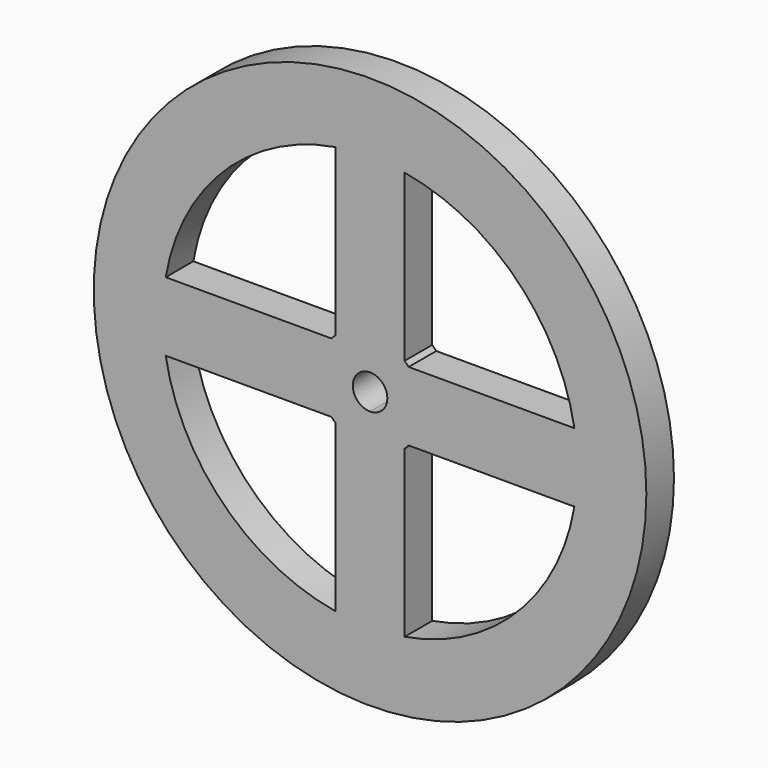
from build123d import *

# Parameters (mm, degrees)
F0_R     = 40
F1_DEPTH = 2.5


with BuildPart() as f1:
    # F0 (on Front) → F1 (new body, symmetric)
    with BuildSketch(Plane.XZ):
        Circle(F0_R)
        with BuildLine():
            Line((-29.580399, -5), (-5.59017, -5))
            ThreePointArc((-5.59017, -5), (-5.303301, -5.303301), (-5, -5.59017))
            Line((-5, -5.59017), (-5, -29.580399))
            ThreePointArc((-5, -29.580399), (-21.213203, -21.213203), (-29.580399, -5))
        make_face(mode=Mode.SUBTRACT)
        with BuildLine():
            Line((5, -29.580399), (5, -5.59017))
            ThreePointArc((5, -5.59017), (5.303301, -5.303301), (5.59017, -5))
            Line((5.59017, -5), (29.580399, -5))
            ThreePointArc((29.580399, -5), (21.213203, -21.213203), (5, -29.580399))
        make_face(mode=Mode.SUBTRACT)
        with BuildLine():
            Line((-5, 29.580399), (-5, 5.59017))
            ThreePointArc((-5, 5.59017), (-5.303301, 5.303301), (-5.59017, 5))
            Line((-5.59017, 5), (-29.580399, 5))
            ThreePointArc((-29.580399, 5), (-21.213203, 21.213203), (-5, 29.580399))
        make_face(mode=Mode.SUBTRACT)
        with BuildLine():
            ThreePointArc((0, -2.5), (-1.767767, 1.767767), (2.5, 0))
            ThreePointArc((2.5, 0), (1.767767, -1.767767), (0, -2.5))
        make_face(mode=Mode.SUBTRACT)
        with BuildLine():
            ThreePointArc((5, 29.580399), (21.213203, 21.213203), (29.580399, 5))
            Line((29.580399, 5), (5.59017, 5))
            ThreePointArc((5.59017, 5), (5.303301, 5.303301), (5, 5.59017))
            Line((5, 5.59017), (5, 29.580399))
        make_face(mode=Mode.SUBTRACT)
    extrude(amount=F1_DEPTH, both=True)


solid = f1.part
